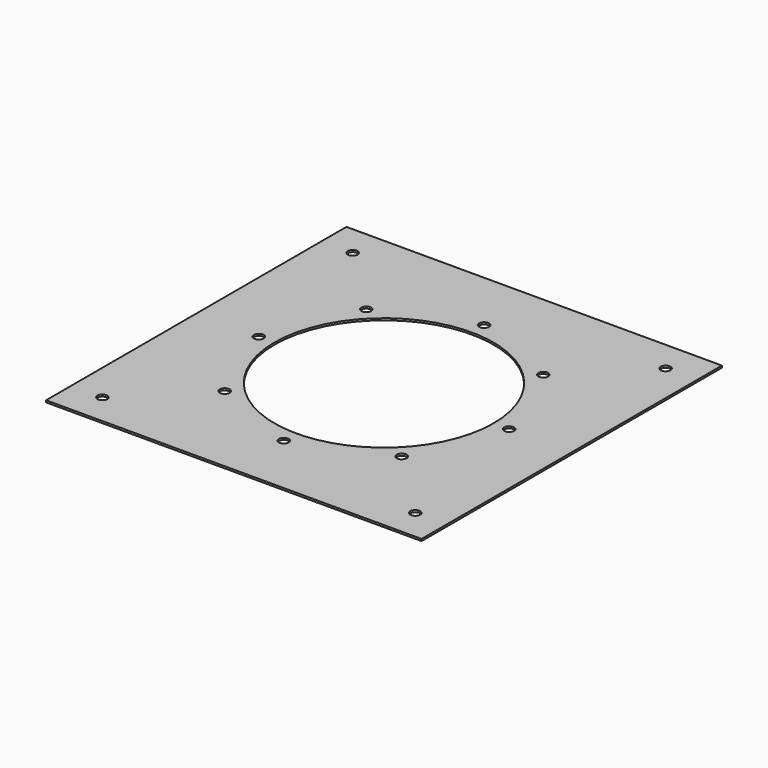
from build123d import *

# Parameters (mm, degrees)
F0_W     = 304.8
F0_H     = 304.8
F0_R     = 3.96875
F1_DEPTH = 1.5875
F2_R     = 88.9
F3_DEPTH = 25.4
F4_R     = 3.96875
F5_DEPTH = 25.4
F6_DEPTH = 25.4


with BuildPart() as f1:
    # F0 (on Top) → F1 (new body)
    with BuildSketch(Plane.XY):
        with Locations((152.4, 152.4)):
            Rectangle(F0_W, F0_H)
        with Locations((25.4, 25.4)):
            Circle(F0_R, mode=Mode.SUBTRACT)
        with Locations((279.4, 25.4)):
            Circle(F0_R, mode=Mode.SUBTRACT)
        with Locations((25.4, 279.4)):
            Circle(F0_R, mode=Mode.SUBTRACT)
        with Locations((279.4, 279.4)):
            Circle(F0_R, mode=Mode.SUBTRACT)
    extrude(amount=F1_DEPTH)

    # F2 (on face) → F3 (cut)
    with BuildSketch(Plane.XY.offset(1.5875)):
        with Locations((152.4, 152.4)):
            Circle(F2_R)
    extrude(amount=-F3_DEPTH, mode=Mode.SUBTRACT)

    # F4 (on face) → F5 (cut)
    with BuildSketch(Plane.XY.offset(1.5875)):
        with Locations((152.4, 254)):
            Circle(F4_R)
        with Locations((152.4, 50.8)):
            Circle(F4_R)
        with Locations((50.8, 152.4)):
            Circle(F4_R)
        with Locations((254, 152.4)):
            Circle(F4_R)
        with Locations((80.557951, 224.242049)):
            Circle(F4_R)
        with Locations((224.242049, 80.557951)):
            Circle(F4_R)
        with Locations((224.242049, 224.242049)):
            Circle(F4_R)
        with Locations((80.557951, 80.557951)):
            Circle(F4_R)
    extrude(amount=-F5_DEPTH, mode=Mode.SUBTRACT)

    # F4 (on face) → F6 (cut)
    with BuildSketch(Plane.XY.offset(1.5875)):
        with Locations((152.4, 254)):
            Circle(F4_R)
        with Locations((152.4, 50.8)):
            Circle(F4_R)
        with Locations((50.8, 152.4)):
            Circle(F4_R)
        with Locations((254, 152.4)):
            Circle(F4_R)
        with Locations((80.557951, 224.242049)):
            Circle(F4_R)
        with Locations((224.242049, 80.557951)):
            Circle(F4_R)
        with Locations((224.242049, 224.242049)):
            Circle(F4_R)
        with Locations((80.557951, 80.557951)):
            Circle(F4_R)
    extrude(amount=-F6_DEPTH, mode=Mode.SUBTRACT)


solid = f1.part
